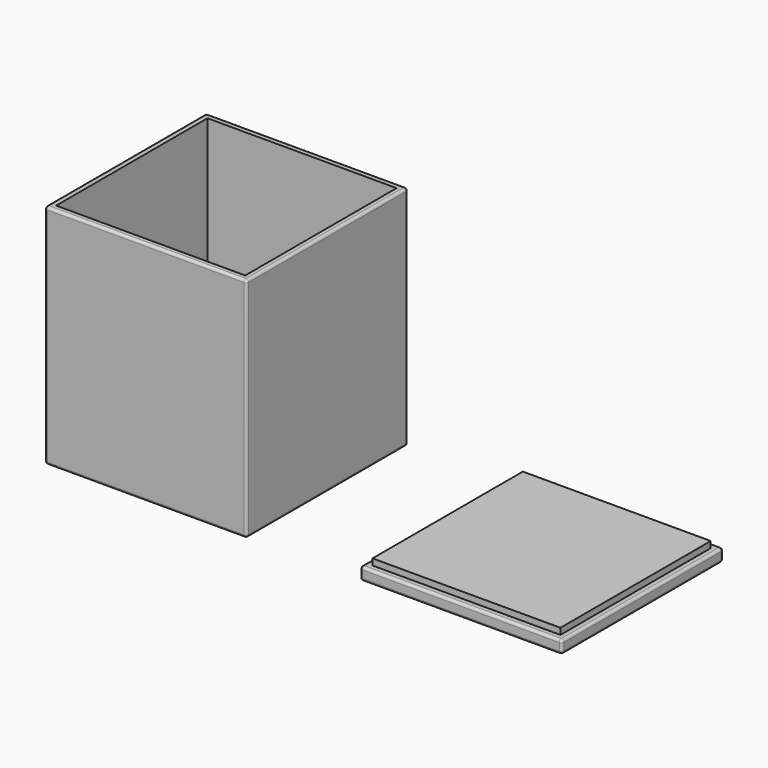
from build123d import *

# Parameters (mm, degrees)
SKETCH_W     = 80
SKETCH_H     = 80
PAD_DEPTH    = 90
SKETCH001_W  = 75
SKETCH001_H  = 75
POCKET_DEPTH = 87.5
FILLET_R     = 1
SKETCH002_W  = 80
SKETCH002_H  = 80
PAD001_DEPTH = 5
SKETCH003_W  = 74.5
SKETCH003_H  = 74.5
PAD002_DEPTH = 2.5
FILLET001_R  = 1


with BuildPart() as obj1:
    # Sketch → Pad (new body)
    with BuildSketch(Plane.XY):
        Rectangle(SKETCH_W, SKETCH_H)
    extrude(amount=PAD_DEPTH)

    # Sketch001 (on Face6 of Pad) → Pocket (cut)
    with BuildSketch(Plane.XY.offset(90)):
        Rectangle(SKETCH001_W, SKETCH001_H)
    extrude(amount=-POCKET_DEPTH, mode=Mode.SUBTRACT)

    # Fillet
    fillet_edges = [obj1.edges().sort_by_distance(p)[0] for p in [
        (-40, -40, 45),
        (40, -40, 45),
        (40, 40, 45),
        (-40, 40, 45),
        (0, -40, 0),
        (-40, 0, 0),
        (40, 0, 0),
        (0, 40, 0),
        (-40, 0, 90),
        (0, -40, 90),
        (40, 0, 90),
        (0, 40, 90),
    ]]
    fillet(fillet_edges, radius=FILLET_R)


with BuildPart() as obj2:
    # Sketch002 → Pad001 (new body)
    with BuildSketch(Plane.XY):
        with Locations((125, 0)):
            Rectangle(SKETCH002_W, SKETCH002_H)
    extrude(amount=PAD001_DEPTH)

    # Sketch003 (on Face6 of Pad001) → Pad002 (join)
    with BuildSketch(Plane.XY.offset(5)):
        with Locations((125, 0)):
            Rectangle(SKETCH003_W, SKETCH003_H)
    extrude(amount=PAD002_DEPTH)

    # Fillet001
    fillet001_edges = [obj2.edges().sort_by_distance(p)[0] for p in [
        (125, -40, 5),
        (85, 0, 5),
        (165, 0, 5),
        (85, -40, 2.5),
        (125, -40, 0),
        (165, -40, 2.5),
        (165, 0, 0),
        (165, 40, 2.5),
        (125, 40, 5),
        (125, 40, 0),
        (85, 40, 2.5),
        (85, 0, 0),
    ]]
    fillet(fillet001_edges, radius=FILLET001_R)


solid = Compound([obj1.part, obj2.part])
